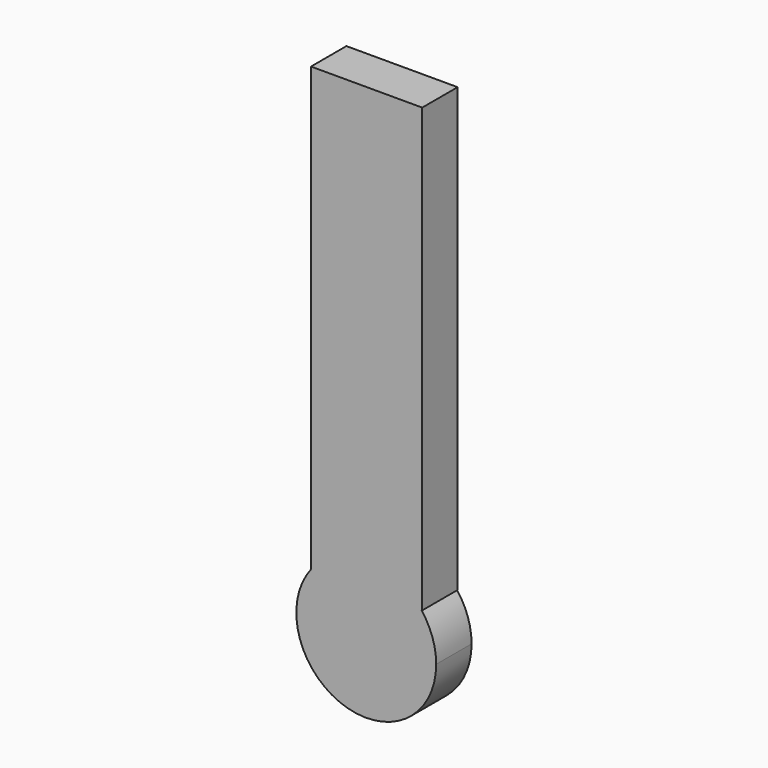
from build123d import *

# Parameters (mm, degrees)
F1_DEPTH = 12.7


with BuildPart() as f1:
    # F0 (on Front) → F1 (new body)
    with BuildSketch(Plane.XZ):
        with BuildLine():
            ThreePointArc((15.85425, 12.296132), (0, 20.063701), (-15.85425, 12.296132))
            Line((-15.85425, 12.296132), (15.85425, 12.296132))
        make_face()
        with BuildLine():
            Line((-15.85425, 139.296132), (-15.85425, 12.296132))
            ThreePointArc((-15.85425, 12.296132), (0, 20.063701), (15.85425, 12.296132))
            Line((15.85425, 12.296132), (16.051341, 12.296132))
            Line((16.051341, 12.296132), (16.051341, 139.296132))
            Line((16.051341, 139.296132), (-15.85425, 139.296132))
        make_face()
        with BuildLine():
            Line((15.85425, 12.296132), (-15.85425, 12.296132))
            ThreePointArc((-15.85425, 12.296132), (-6.498352, -18.98219), (20.063701, 0))
            ThreePointArc((20.063701, 0), (18.98219, 6.498352), (15.85425, 12.296132))
        make_face()
    extrude(amount=F1_DEPTH)


solid = f1.part
